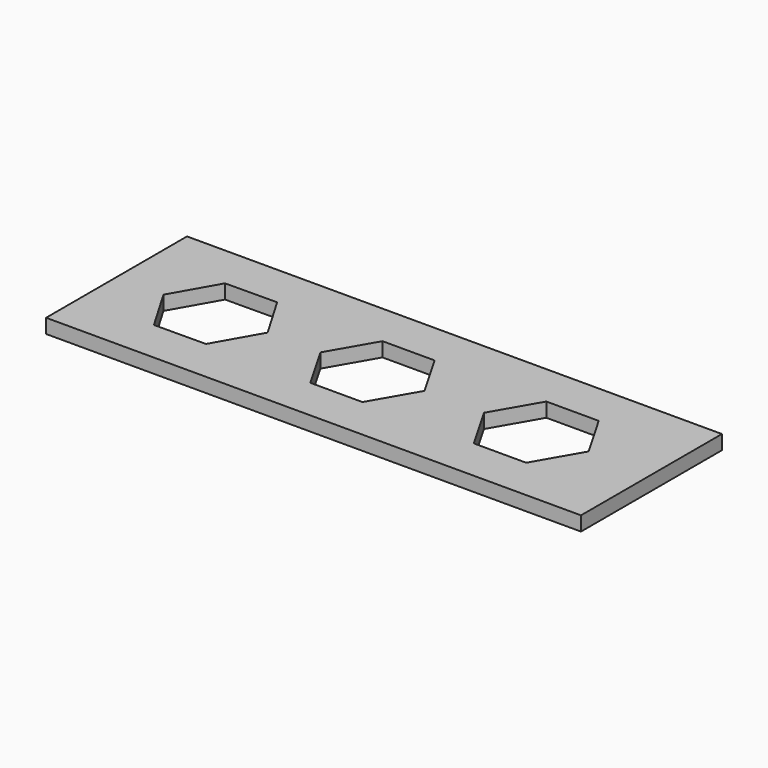
from build123d import *

# Parameters (mm, degrees)
F0_W     = 112.086874
F0_H     = 36.914836
F1_DEPTH = 3


with BuildPart() as f1:
    # F0 (on Top) → F1 (new body)
    with BuildSketch(Plane.XY):
        Rectangle(F0_W, F0_H)
        Polygon((-40.794464, 9.361871), (-29.940543, 9.437671), (-24.447938, 0.0758), (-29.809254, -9.361871), (-40.663174, -9.437671), (-46.155779, -0.0758), align=None, mode=Mode.SUBTRACT)
        Polygon((8.495988, 0), (3.040028, -9.45), (-7.871892, -9.45), (-13.327852, 0), (-7.871892, 9.45), (3.040028, 9.45), align=None, mode=Mode.SUBTRACT)
        Polygon((42.875068, 0), (37.39024, -9.5), (26.420585, -9.5), (20.935758, 0), (26.420585, 9.5), (37.39024, 9.5), align=None, mode=Mode.SUBTRACT)
    extrude(amount=F1_DEPTH)


solid = f1.part
